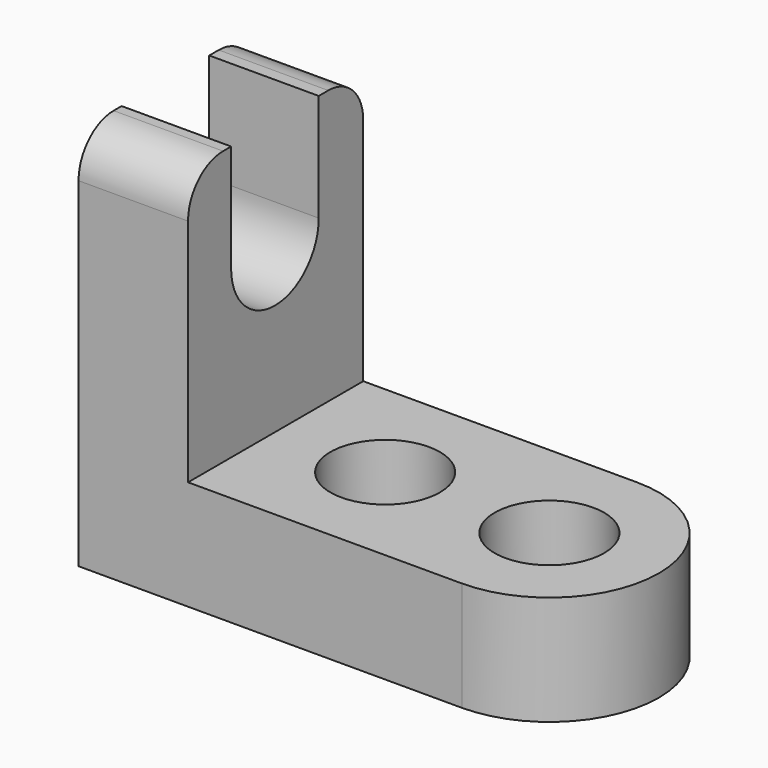
from build123d import *

# Parameters (mm, degrees)
F1_DEPTH = 25.4
F3_DEPTH = 12.7
F4_R     = 6.35
F5_DEPTH = 42.672
F7_R     = 5.08
F9_DEPTH = 25.4


with BuildPart() as f1:
    # F0 (on Front) → F1 (new body)
    with BuildSketch(Plane.XZ):
        Polygon((-22.192281, 30.523251), (-34.892281, 30.523251), (-34.892281, -13.926749), (9.557719, -13.926749), (9.557719, -1.226749), (-22.192281, -1.226749), align=None)
    extrude(amount=F1_DEPTH)

    # F2 (on face) → F3 (join)
    with BuildSketch(Plane.XY.offset(-1.226749)):
        with BuildLine():
            Line((9.557719, 0), (9.557719, -25.4))
            ThreePointArc((9.557719, -25.4), (22.257719, -12.7), (9.557719, 0))
        make_face()
    extrude(amount=-F3_DEPTH)

    # F4 (on face) → F5 (cut)
    with BuildSketch(Plane.XY.offset(-1.226749)):
        with Locations((9.557719, -12.7)):
            Circle(F4_R)
        with Locations((-9.492281, -12.7)):
            Circle(F4_R)
    extrude(amount=-F5_DEPTH, mode=Mode.SUBTRACT)

    # F7
    f7_edges = [f1.edges().sort_by_distance(p)[0] for p in [
        (-28.542281, -25.4, 30.523251),
        (-28.542281, 0, 30.523251),
    ]]
    fillet(f7_edges, radius=F7_R)

    # F8 (on face) → F9 (cut)
    with BuildSketch(Plane.YZ.offset(-22.192281)):
        with BuildLine():
            Line((-6.454417, 18.048104), (-6.454417, 30.523251))
            Line((-6.454417, 30.523251), (-19.154417, 30.523251))
            Line((-19.154417, 30.523251), (-19.154417, 18.048104))
            ThreePointArc((-19.154417, 18.048104), (-12.804417, 11.698104), (-6.454417, 18.048104))
        make_face()
    extrude(amount=-F9_DEPTH, mode=Mode.SUBTRACT)


solid = f1.part
